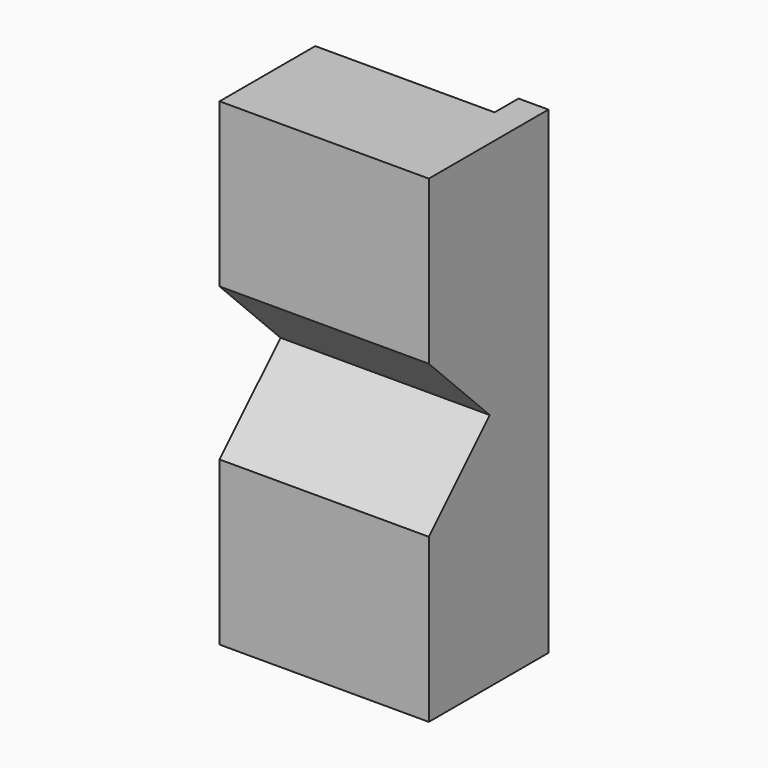
from build123d import *

# Parameters (mm, degrees)
F1_DEPTH = 80
F3_DEPTH = 35.001


with BuildPart() as f1:
    # F0 (on Top) → F1 (new body)
    with BuildSketch(Plane.XY):
        Polygon((17.5, 12.5), (12.5, 12.5), (12.5, 7.5), (-17.5, 7.5), (-17.5, -12.5), (17.5, -12.5), align=None)
    extrude(amount=F1_DEPTH)

    # F2 (on face) → F3 (cut, through all)
    with BuildSketch(Plane.YZ.offset(17.5)):
        Polygon((0.239039, 40), (-12.5, 52.739039), (-12.5, 27.260961), align=None)
    extrude(amount=-F3_DEPTH, mode=Mode.SUBTRACT)


solid = f1.part
